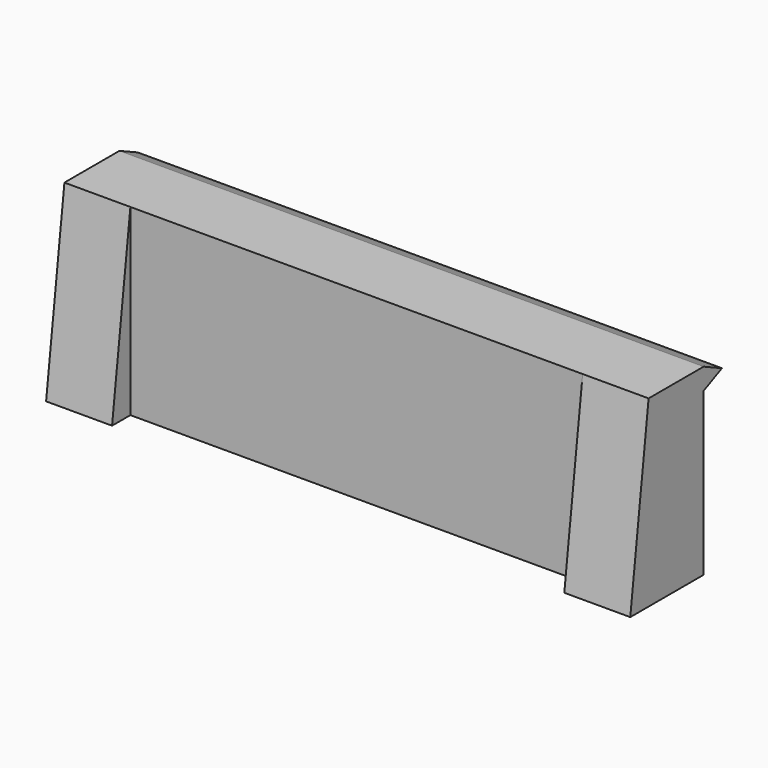
from build123d import *

# Parameters (mm, degrees)
F1_DEPTH = 12.75
F2_W     = 9.87
F2_H     = 0.5
F3_DEPTH = 4.001


with BuildPart() as f1:
    # F0 (on Right) → F1 (new body)
    with BuildSketch(Plane.YZ):
        Polygon((1.5, 4), (0, 4), (-0.5, 0), (1.5, 0), (1.5, 3.533692), (2, 3.766846), align=None)
    extrude(amount=F1_DEPTH)

    # F2 (on face) → F3 (cut, through all)
    with BuildSketch(Plane(origin=(0, 0, 0), x_dir=(1, 0, 0), z_dir=(0, 0, -1))):
        with Locations((6.375, 0.25)):
            Rectangle(F2_W, F2_H)
    extrude(amount=-F3_DEPTH, mode=Mode.SUBTRACT)


solid = f1.part
